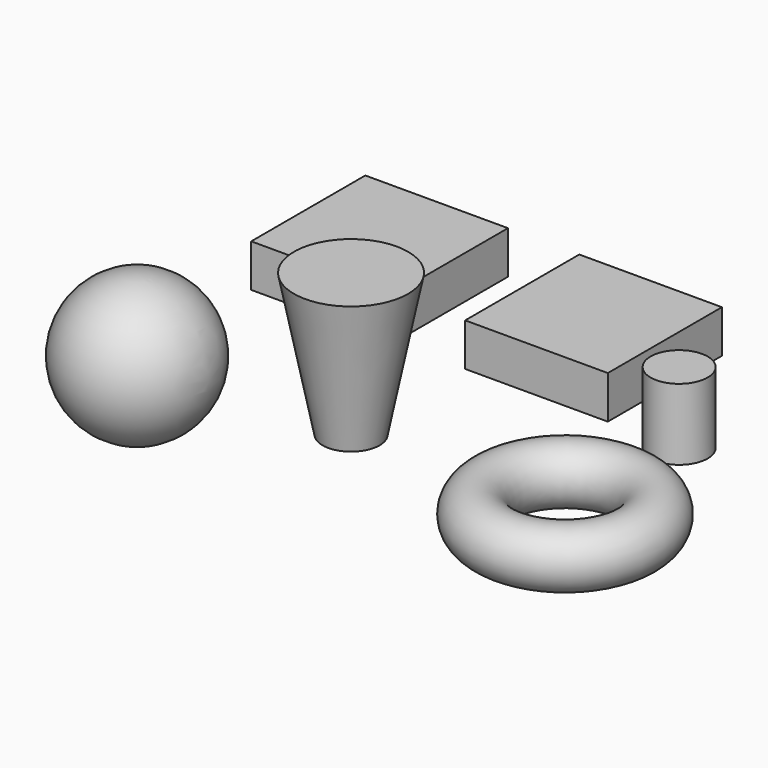
from build123d import *

# Parameters (mm, degrees)
BOX_W          = 10
BOX_H          = 10
BOX_DEPTH      = 3
BOX001_W       = 10
BOX001_H       = 10
BOX001_DEPTH   = 3
CYLINDER_R     = 2
CYLINDER_DEPTH = 5
TORUS_R        = 2


with BuildPart() as cube:
    # Box → Box (new body)
    with BuildSketch(Plane(origin=(15, 0, 0), x_dir=(1, 0, 0), z_dir=(0, 0, 1))):
        with Locations((5, 5)):
            Rectangle(BOX_W, BOX_H)
    extrude(amount=BOX_DEPTH)


with BuildPart() as cube001:
    # Box001 → Box001 (new body)
    with BuildSketch(Plane.XY):
        with Locations((5, 5)):
            Rectangle(BOX001_W, BOX001_H)
    extrude(amount=BOX001_DEPTH)


with BuildPart() as cylinder:
    # Cylinder → Cylinder (new body)
    with BuildSketch(Plane(origin=(30, 0, 0), x_dir=(1, 0, 0), z_dir=(0, 0, 1))):
        Circle(CYLINDER_R)
    extrude(amount=CYLINDER_DEPTH)


with BuildPart() as sphere:
    # Sphere → Sphere (revolve)
    with BuildSketch(Plane.XZ.offset(10)):
        with BuildLine():
            ThreePointArc((0, -5), (5, 0), (0, 5))
            Line((0, 5), (0, -5))
        make_face()
    revolve(axis=Axis((0, -10, 0), (0, 0, 1)))


with BuildPart() as cone:
    # Cone → Cone (revolve)
    with BuildSketch(Plane(origin=(15, -10, 0), x_dir=(1, 0, 0), z_dir=(0, -1, 0))):
        Polygon((0, 0), (2, 0), (4, 10), (0, 10), align=None)
    revolve(axis=Axis((15, -10, 0), (0, 0, 1)))


with BuildPart() as torus:
    # Torus → Torus (revolve)
    with BuildSketch(Plane(origin=(30, -10, 0), x_dir=(1, 0, 0), z_dir=(0, -1, 0))):
        with Locations((5, 0)):
            Circle(TORUS_R)
    revolve(axis=Axis((30, -10, 0), (0, 0, 1)))


solid = Compound([cube.part, cube001.part, cylinder.part, sphere.part, cone.part, torus.part])
